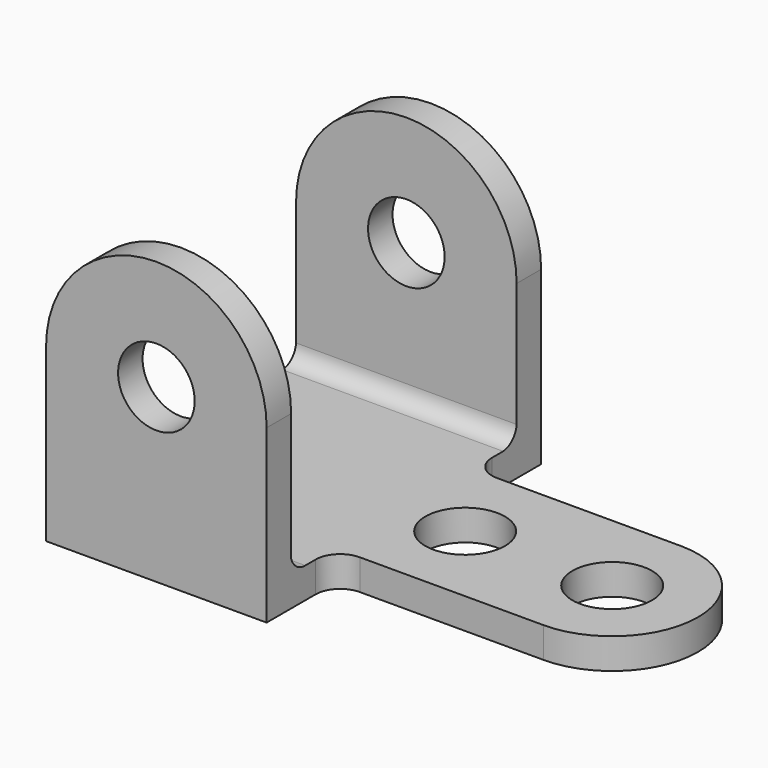
from build123d import *

# Parameters (mm, degrees)
F1_DEPTH = 7.9375
F2_W     = 57.15
F2_H     = 7.9375
F3_DEPTH = 76.2
F4_R     = 9.92251
F5_DEPTH = 88.901
F6_R     = 10.3251
F7_DEPTH = 25.4
F9_DEPTH = 57.15


with BuildPart() as f1:
    # F0 (on Top) → F1 (new body)
    with BuildSketch(Plane.XY):
        with BuildLine():
            Line((-9.525, -22.225), (38.1, -22.225))
            ThreePointArc((38.1, -22.225), (60.325, 0), (38.1, 22.225))
            Line((38.1, 22.225), (-9.525, 22.225))
            ThreePointArc((-9.525, 22.225), (-14.015128, 24.084872), (-15.875, 28.575))
            Line((-15.875, 28.575), (-15.875, 44.45))
            Line((-15.875, 44.45), (-73.025, 44.45))
            Line((-73.025, 44.45), (-73.025, -44.45))
            Line((-73.025, -44.45), (-15.875, -44.45))
            Line((-15.875, -44.45), (-15.875, -28.575))
            ThreePointArc((-15.875, -28.575), (-14.015128, -24.084872), (-9.525, -22.225))
        make_face()
    extrude(amount=F1_DEPTH)

    # F2 (on face) → F3 (join)
    with BuildSketch(Plane.XY.offset(7.9375)):
        with Locations((-44.45, 40.48125)):
            Rectangle(F2_W, F2_H)
        with Locations((-44.45, -40.48125)):
            Rectangle(F2_W, F2_H)
    extrude(amount=F3_DEPTH)

    # F4 (on face) → F5 (cut, through all)
    with BuildSketch(Plane.XZ.offset(44.45)):
        with BuildLine():
            ThreePointArc((-73.025, 44.45), (-44.45, 73.025), (-15.875, 44.45))
            Line((-15.875, 44.45), (-15.875, 84.1375))
            Line((-15.875, 84.1375), (-73.025, 84.1375))
            Line((-73.025, 84.1375), (-73.025, 44.45))
        make_face()
        with Locations((-44.45, 44.45)):
            Circle(F4_R)
    extrude(amount=-F5_DEPTH, mode=Mode.SUBTRACT)

    # F6 (on face) → F7 (cut)
    with BuildSketch(Plane.XY.offset(7.9375)):
        with Locations((38.1, 0)):
            Circle(F6_R)
        Circle(F6_R)
    extrude(amount=-F7_DEPTH, mode=Mode.SUBTRACT)

    # F8 (on face) → F9 (join)
    with BuildSketch(Plane(origin=(-73.025, 0, 0), x_dir=(0, -1, 0), z_dir=(-1, 0, 0))):
        with BuildLine():
            Line((-36.5125, 12.286079), (-36.5125, 13.082203))
            ThreePointArc((-36.5125, 13.082203), (-36.529165, 12.684141), (-36.5125, 12.286079))
        make_face()
        with BuildLine():
            Line((-31.378329, 7.9375), (-32.155001, 7.9375))
            ThreePointArc((-32.155001, 7.9375), (-31.766665, 7.921641), (-31.378329, 7.9375))
        make_face()
        with BuildLine():
            ThreePointArc((-32.155001, 7.9375), (-35.130808, 9.313096), (-36.5125, 12.286079))
            Line((-36.5125, 12.286079), (-36.5125, 7.9375))
            Line((-36.5125, 7.9375), (-32.155001, 7.9375))
        make_face()
        with BuildLine():
            Line((36.5125, 14.030189), (36.5125, 11.369799))
            ThreePointArc((36.5125, 11.369799), (36.702037, 12.699994), (36.5125, 14.030189))
        make_face()
        with BuildLine():
            ThreePointArc((36.5125, 11.369799), (34.801446, 8.893304), (31.947121, 7.9375))
            Line((31.947121, 7.9375), (36.5125, 7.9375))
            Line((36.5125, 7.9375), (36.5125, 11.369799))
        make_face()
    extrude(amount=-F9_DEPTH)


solid = f1.part
